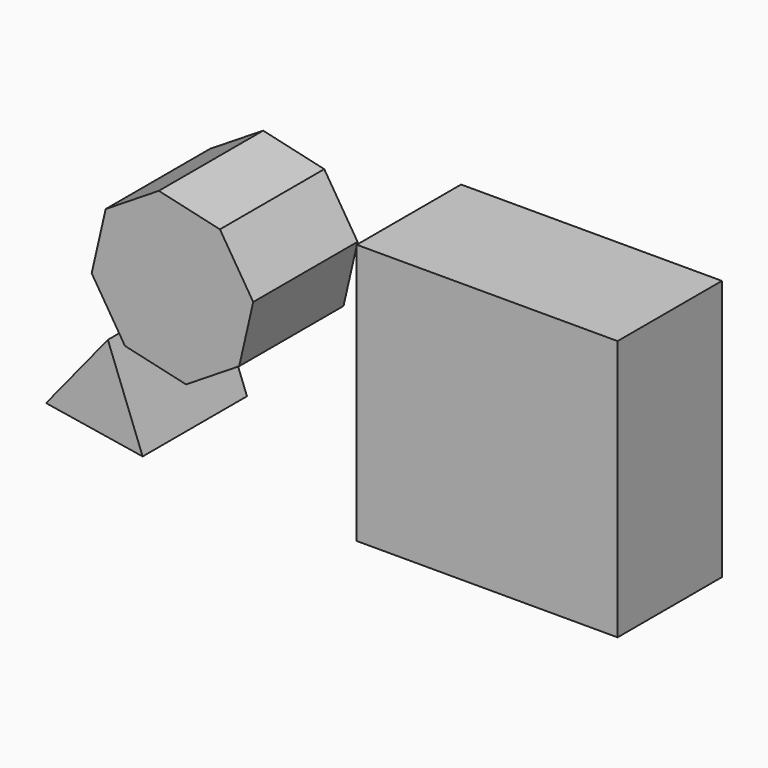
from build123d import *

# Parameters (mm, degrees)
F1_DEPTH = 25.4
F2_W     = 50.8
F2_H     = 50.8
F3_DEPTH = 25.4


with BuildPart() as f1:
    # F0 (on Front) → F1 (new body)
    with BuildSketch(Plane.XZ):
        Polygon((-26.569384, 48.815078), (-33.053132, 59.161773), (-44.954053, 61.893289), (-55.300748, 55.409541), (-58.032264, 43.50862), (-51.548516, 33.161925), (-39.647595, 30.430409), (-29.3009, 36.914157), align=None)
        Polygon((-66.911871, 18.360628), (-48.105528, 15.323525), (-54.878491, 33.128846), align=None)
    extrude(amount=F1_DEPTH)


with BuildPart() as f3:
    # F2 (on Front) → F3 (new body)
    with BuildSketch(Plane.XZ):
        with Locations((18.992273, 39.787415)):
            Rectangle(F2_W, F2_H)
    extrude(amount=F3_DEPTH)


solid = Compound([f1.part, f3.part])
